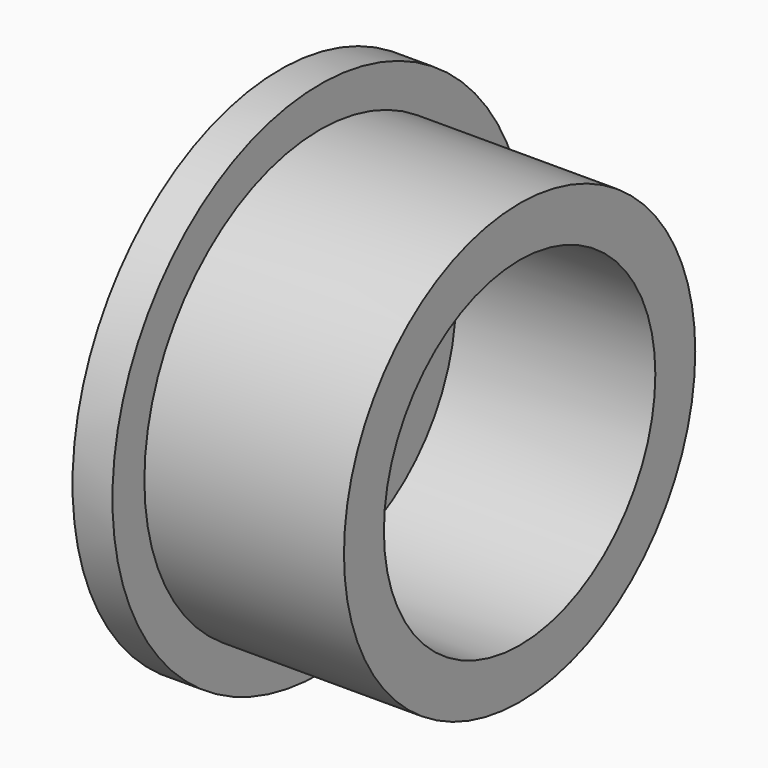
from build123d import *

# Parameters (mm, degrees)
F0_R         = 11
F0_R_2       = 9
F0_R_3       = 3.25
F1_DEPTH     = 12
F2_R         = 8.5
F2_R_2       = 3.25
F3_DEPTH     = 10
F0_R_4       = 13
F1_FACE1_R   = 11
F1_FACE1_R_2 = 3.25
F4_DEPTH     = 2


with BuildPart() as f1:
    # F0 (on Right) → F1 (new body)
    with BuildSketch(Plane.YZ):
        Circle(F0_R)
        Circle(F0_R_2, mode=Mode.SUBTRACT)
        Circle(F0_R_2)
        Circle(F0_R_3, mode=Mode.SUBTRACT)
    extrude(amount=F1_DEPTH)

    # F2 (on face) → F3 (cut)
    with BuildSketch(Plane.YZ.offset(12)):
        Circle(F2_R)
        Circle(F2_R_2, mode=Mode.SUBTRACT)
    extrude(amount=-F3_DEPTH, mode=Mode.SUBTRACT)

    # F0 (on Right) + F1_face1 (on face) → F4 (join)
    with BuildSketch(Plane.YZ):
        Circle(F0_R_4)
        Circle(F0_R, mode=Mode.SUBTRACT)
        Circle(F0_R)
        Circle(F0_R_2, mode=Mode.SUBTRACT)
        Circle(F0_R_2)
        Circle(F0_R_3, mode=Mode.SUBTRACT)
    with BuildSketch(Plane(origin=(0, 0, 0), x_dir=(0, 1, 0), z_dir=(-1, 0, 0))):
        Circle(F1_FACE1_R)
        Circle(F1_FACE1_R_2, mode=Mode.SUBTRACT)
    extrude(amount=F4_DEPTH, dir=(1, 0, 0))


solid = f1.part
